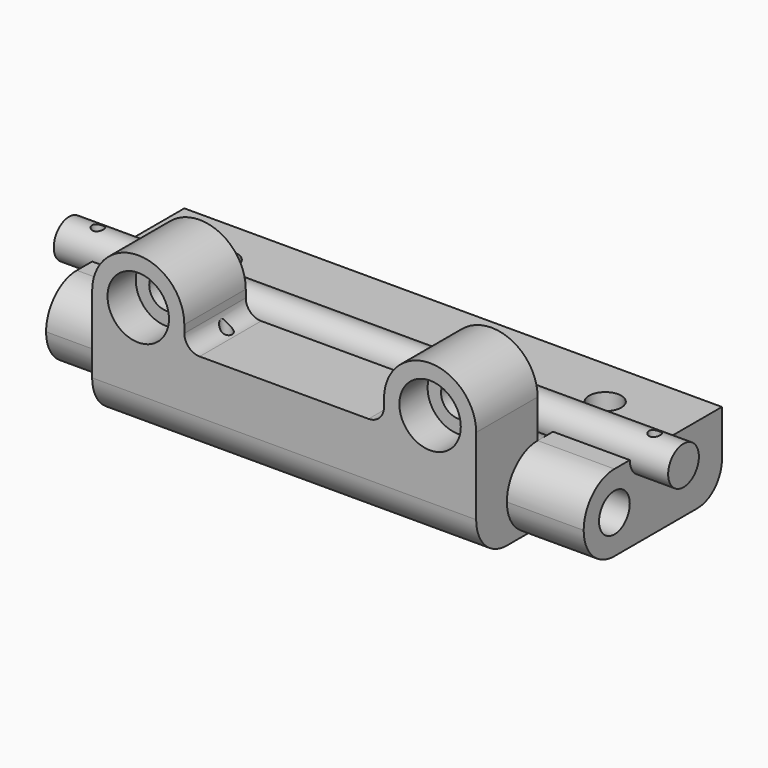
from build123d import *

# Parameters (mm, degrees)
PAD001_DEPTH         = 10
SKETCH002_R          = 2.5
POCKET_DEPTH         = 35.001
POCKET_DEPTH_BACK    = -35.001
SKETCH007_R          = 2.1
HOLE_DEPTH           = 10.001
SKETCH012_R          = 0.75
POCKET004_DEPTH      = 9
FILLET_R             = 4
SKETCH_R             = 2.5
PAD_DEPTH            = 25
POCKET002_DEPTH      = 10
POCKET003_DEPTH      = 15.00097
HOLE001_D            = 4.5
HOLE001_CBORE_D      = 8
HOLE001_CBORE_DEPTH  = 4.6
SKETCH013_R          = 0.75
POCKET005_DEPTH      = 10.001
POCKET005_DEPTH_BACK = -11.001
SKETCH014_R          = 2.5
PAD002_DEPTH         = 40
SKETCH015_R          = 0.75
POCKET006_DEPTH      = 2.501
POCKET006_DEPTH_BACK = -2.501


with BuildPart() as obj1:
    # Sketch001 → Pad001 (new body)
    with BuildSketch(Plane.XY):
        Polygon((-35, -10), (-35, 12.5), (35, 12.5), (35, -10), (25, -10), (25, 0), (-25, 0), (-25, -10), align=None)
    extrude(amount=-PAD001_DEPTH)

    # Sketch002 → Pocket (cut, two sides)
    with BuildSketch(Plane.YZ) as pocket_sk:
        with Locations((-5, -5)):
            Circle(SKETCH002_R)
        with BuildLine():
            ThreePointArc((-5, 0), (-8.535534, -1.464466), (-10, -5))
            ThreePointArc((-10, -5), (-8.535534, -8.535534), (-5, -10))
            Line((-10, -10), (-5, -10))
            Line((-13, -10), (-10, -10))
            Line((-13, 0), (-13, -10))
            Line((-10, 0), (-13, 0))
            Line((-10, 0), (-5, 0))
        make_face()
    extrude(amount=-POCKET_DEPTH, mode=Mode.SUBTRACT)
    extrude(pocket_sk.sketch, amount=-POCKET_DEPTH_BACK, mode=Mode.SUBTRACT)

    # Sketch007 → Hole (cut, through all)
    with BuildSketch(Plane.XY):
        with Locations((25, 6)):
            Circle(SKETCH007_R)
        with Locations((-25, 6)):
            Circle(SKETCH007_R)
    extrude(amount=-HOLE_DEPTH, mode=Mode.SUBTRACT)

    # Sketch012 → Pocket004 (cut)
    with BuildSketch(Plane.XZ):
        with Locations((-1.5, -6.9)):
            Circle(SKETCH012_R)
        with Locations((1.5, -6.9)):
            Circle(SKETCH012_R)
    extrude(amount=-POCKET004_DEPTH, mode=Mode.SUBTRACT)

    # Fillet
    fillet_edges = [obj1.edges().sort_by_distance(p)[0] for p in [
        (0, 12.5, -10),
    ]]
    fillet(fillet_edges, radius=FILLET_R)


with BuildPart() as doorhinge:
    # Sketch → Pad (new body, symmetric)
    with BuildSketch(Plane.YZ):
        with BuildLine():
            ThreePointArc((-5.000003, -10), (0, -5.000016), (-4.99997, 0))
            Line((-4.99997, 0), (-4.99997, 12))
            Line((-4.99997, 12), (-14.99997, 12))
            Line((-14.99997, 12), (-14.99997, -5))
            ThreePointArc((-14.99997, -5), (-13.535504, -8.535534), (-9.99997, -10))
            Line((-9.99997, -10), (-5.000003, -10))
        make_face()
        with Locations((-5, -5)):
            Circle(SKETCH_R, mode=Mode.SUBTRACT)
    extrude(amount=PAD_DEPTH, both=True)

    # Sketch009 → Pocket002 (cut)
    with BuildSketch(Plane.XZ):
        with BuildLine():
            Line((-11.000704, 0), (10.999296, 0))
            ThreePointArc((12.999296, -2), (12.41351, -0.585786), (10.999296, 0))
            Line((12.999296, -2), (12.999296, -18.318916))
            Line((12.999296, -18.318916), (-13.000704, -18.318916))
            Line((-13.000704, -18.318916), (-13.000704, -2))
            ThreePointArc((-11.000704, 0), (-12.414917, -0.585786), (-13.000704, -2))
        make_face()
    extrude(amount=POCKET002_DEPTH, mode=Mode.SUBTRACT)

    # Sketch010 → Pocket003 (cut, through all)
    with BuildSketch(Plane.XZ):
        with BuildLine():
            Line((13, 5), (13, 4))
            ThreePointArc((11, 2), (12.414214, 2.585786), (13, 4))
            Line((-11, 2), (11, 2))
            ThreePointArc((-13, 4), (-12.414214, 2.585786), (-11, 2))
            Line((-13, 4), (-13, 5))
            ThreePointArc((-13, 5), (-19, 11), (-25, 5))
            Line((-25, 11), (-25, 5))
            Line((-25, 11), (-25, 12))
            Line((-25, 12), (25, 12))
            Line((25, 12), (25, 11))
            Line((25, 5), (25, 11))
            ThreePointArc((25, 5), (19, 11), (13, 5))
        make_face()
    extrude(amount=POCKET003_DEPTH, mode=Mode.SUBTRACT)

    # Hole001 (through all)
    with Locations(Plane.XZ.offset(15)):
        with Locations((-19, 5), (19, 5)):
            CounterBoreHole(HOLE001_D / 2, HOLE001_CBORE_D / 2, HOLE001_CBORE_DEPTH)

    # Sketch013 → Pocket005 (cut, two sides)
    with BuildSketch(Plane.XY) as pocket005_sk:
        with Locations((-12.15, -9.2)):
            Circle(SKETCH013_R)
        with Locations((12.15, -9.2)):
            Circle(SKETCH013_R)
    extrude(amount=-POCKET005_DEPTH, mode=Mode.SUBTRACT)
    extrude(pocket005_sk.sketch, amount=-POCKET005_DEPTH_BACK, mode=Mode.SUBTRACT)


with BuildPart() as pin:
    # Sketch014 → Pad002 (new body, symmetric)
    with BuildSketch(Plane.YZ):
        Circle(SKETCH014_R)
    extrude(amount=PAD002_DEPTH, both=True)

    # Sketch015 → Pocket006 (cut, two sides)
    with BuildSketch(Plane.XY) as pocket006_sk:
        with Locations((36.25, 0)):
            Circle(SKETCH015_R)
        with Locations((-36.25, 0)):
            Circle(SKETCH015_R)
    extrude(amount=-POCKET006_DEPTH, mode=Mode.SUBTRACT)
    extrude(pocket006_sk.sketch, amount=-POCKET006_DEPTH_BACK, mode=Mode.SUBTRACT)


solid = Compound([obj1.part, doorhinge.part, pin.part])
